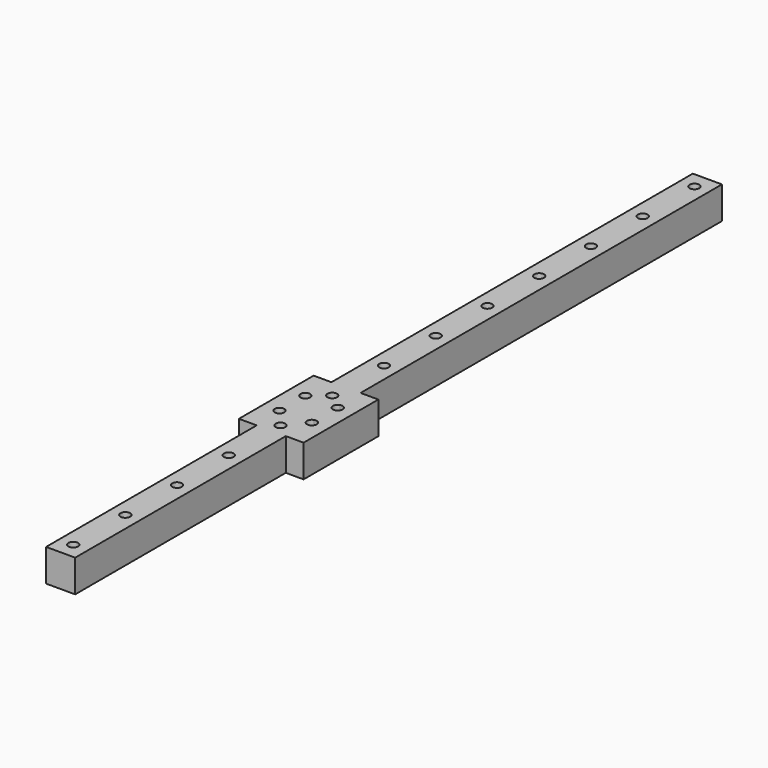
from build123d import *

# Parameters (mm, degrees)
F0_W     = 9
F0_H     = 139.6909442604
F0_R     = 1.5
F0_H_2   = 81.4090557396
F1_DEPTH = 10


with BuildPart() as f1:
    # F0 (on Top) → F1 (new body)
    with BuildSketch(Plane.XY):
        with Locations((-251.2277567387, 73.9804314047)):
            Rectangle(F0_W, F0_H)
        with Locations((-251.2277567387, 18.8259035349)):
            Circle(F0_R, mode=Mode.SUBTRACT)
        with Locations((-251.2277567387, 38.8259035349)):
            Circle(F0_R, mode=Mode.SUBTRACT)
        with Locations((-251.2277567387, 58.8259035349)):
            Circle(F0_R, mode=Mode.SUBTRACT)
        with Locations((-251.2277567387, 78.8259035349)):
            Circle(F0_R, mode=Mode.SUBTRACT)
        with Locations((-251.2277567387, 98.8259035349)):
            Circle(F0_R, mode=Mode.SUBTRACT)
        with Locations((-251.2277567387, 118.8259035349)):
            Circle(F0_R, mode=Mode.SUBTRACT)
        with Locations((-251.2277567387, 138.8259035349)):
            Circle(F0_R, mode=Mode.SUBTRACT)
        with BuildLine():
            Line((-246.7277567387, 4.1349592745), (-255.7277567387, 4.1349592745))
            Line((-255.7277567387, 4.1349592745), (-255.7277567387, -3.9008271631))
            ThreePointArc((-255.7277567387, -3.9008271631), (-255.0030118673, -4.4490153217), (-254.7277567387, -5.3150407255))
            ThreePointArc((-254.7277567387, -5.3150407255), (-255.0030118673, -6.1810661293), (-255.7277567387, -6.7292542878))
            Line((-255.7277567387, -6.7292542878), (-255.7277567387, -13.9008271631))
            ThreePointArc((-255.7277567387, -13.9008271631), (-255.0030118673, -14.4490153217), (-254.7277567387, -15.3150407255))
            ThreePointArc((-254.7277567387, -15.3150407255), (-255.0030118673, -16.1810661293), (-255.7277567387, -16.7292542878))
            Line((-255.7277567387, -16.7292542878), (-255.7277567387, -24.7650407255))
            Line((-255.7277567387, -24.7650407255), (-246.7277567387, -24.7650407255))
            Line((-246.7277567387, -24.7650407255), (-246.7277567387, -16.7292542878))
            ThreePointArc((-246.7277567387, -16.7292542878), (-247.7277567387, -15.3150407255), (-246.7277567387, -13.9008271631))
            Line((-246.7277567387, -13.9008271631), (-246.7277567387, -6.7292542878))
            ThreePointArc((-246.7277567387, -6.7292542878), (-247.7277567387, -5.3150407255), (-246.7277567387, -3.9008271631))
            Line((-246.7277567387, -3.9008271631), (-246.7277567387, 4.1349592745))
        make_face()
        with Locations((-251.2277567387, -21.1740964651)):
            Circle(F0_R, mode=Mode.SUBTRACT)
        with Locations((-251.2277567387, -1.1740964651)):
            Circle(F0_R, mode=Mode.SUBTRACT)
        with BuildLine():
            Line((-255.7277567387, -3.9008271631), (-255.7277567387, 4.1349592745))
            Line((-255.7277567387, 4.1349592745), (-261.2277567387, 4.1349592745))
            Line((-261.2277567387, 4.1349592745), (-261.2277567387, -24.7650407255))
            Line((-261.2277567387, -24.7650407255), (-255.7277567387, -24.7650407255))
            Line((-255.7277567387, -24.7650407255), (-255.7277567387, -16.7292542878))
            ThreePointArc((-255.7277567387, -16.7292542878), (-257.7277567387, -15.3150407255), (-255.7277567387, -13.9008271631))
            Line((-255.7277567387, -13.9008271631), (-255.7277567387, -6.7292542878))
            ThreePointArc((-255.7277567387, -6.7292542878), (-257.7277567387, -5.3150407255), (-255.7277567387, -3.9008271631))
        make_face()
        with BuildLine():
            Line((-241.2277567387, 4.1349592745), (-246.7277567387, 4.1349592745))
            Line((-246.7277567387, 4.1349592745), (-246.7277567387, -3.9008271631))
            ThreePointArc((-246.7277567387, -3.9008271631), (-245.3617313349, -4.0902958541), (-244.7277567387, -5.3150407255))
            ThreePointArc((-244.7277567387, -5.3150407255), (-245.3617313349, -6.5397855969), (-246.7277567387, -6.7292542878))
            Line((-246.7277567387, -6.7292542878), (-246.7277567387, -13.9008271631))
            ThreePointArc((-246.7277567387, -13.9008271631), (-245.3617313349, -14.0902958541), (-244.7277567387, -15.3150407255))
            ThreePointArc((-244.7277567387, -15.3150407255), (-245.3617313349, -16.5397855969), (-246.7277567387, -16.7292542878))
            Line((-246.7277567387, -16.7292542878), (-246.7277567387, -24.7650407255))
            Line((-246.7277567387, -24.7650407255), (-241.2277567387, -24.7650407255))
            Line((-241.2277567387, -24.7650407255), (-241.2277567387, 4.1349592745))
        make_face()
        with Locations((-251.2277567387, -65.4695685953)):
            Rectangle(F0_W, F0_H_2)
        with Locations((-251.3328434825, -101.1740964651)):
            Circle(F0_R, mode=Mode.SUBTRACT)
        with Locations((-251.2277567387, -81.1740964651)):
            Circle(F0_R, mode=Mode.SUBTRACT)
        with Locations((-251.2277567387, -61.1740964651)):
            Circle(F0_R, mode=Mode.SUBTRACT)
        with Locations((-251.2277567387, -41.1740964651)):
            Circle(F0_R, mode=Mode.SUBTRACT)
    extrude(amount=F1_DEPTH)


solid = f1.part
